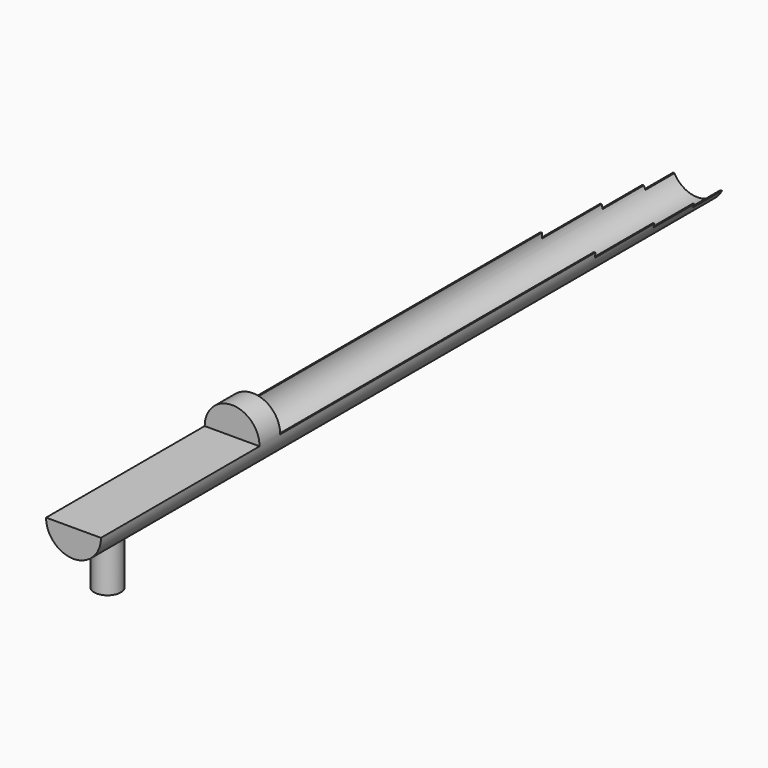
from build123d import *

# Parameters (mm, degrees)
F0_R      = 3.1
F1_DEPTH  = 88.12
F3_DEPTH  = 22.4
F5_DEPTH  = 62.8
F6_R      = 2.95
F7_DEPTH  = 62.8
F9_DEPTH  = 12.5
F10_R     = 1.5
F11_DEPTH = 7.9


with BuildPart() as f1:
    # F0 (on Front) → F1 (new body)
    with BuildSketch(Plane.XZ):
        Circle(F0_R)
    extrude(amount=F1_DEPTH)

    # F2 (on face) → F3 (cut)
    with BuildSketch(Plane.XZ.offset(88.12)):
        with BuildLine():
            ThreePointArc((3.1, 0), (0, 3.1), (-3.1, 0))
            Line((-3.1, 0), (3.1, 0))
        make_face()
    extrude(amount=-F3_DEPTH, mode=Mode.SUBTRACT)

    # F4 (on face) → F5 (cut)
    with BuildSketch(Plane(origin=(0, 0, 0), x_dir=(-1, 0, 0), z_dir=(0, 1, 0))):
        with BuildLine():
            ThreePointArc((3.1, 0), (0, 3.1), (-3.1, 0))
            Line((-3.1, 0), (3.1, 0))
        make_face()
    extrude(amount=-F5_DEPTH, mode=Mode.SUBTRACT)

    # F6 (on face) → F7 (cut)
    with BuildSketch(Plane(origin=(0, 0, 0), x_dir=(-1, 0, 0), z_dir=(0, 1, 0))):
        Circle(F6_R)
    extrude(amount=-F7_DEPTH, mode=Mode.SUBTRACT)

    # F8 (on Right) → F9 (cut, symmetric)
    with BuildSketch(Plane.YZ):
        Polygon((0, 0), (-18.3, 0), (-18.3, -0.55), (-9.9, -0.55), (-9.9, -1), (-4.1, -1), (-4.1, -1.4), (0, -1.4), align=None)
    extrude(amount=F9_DEPTH, both=True, mode=Mode.SUBTRACT)

    # F10 (on face) → F11 (join)
    with BuildSketch(Plane.XY):
        with Locations((0, -83.32)):
            Circle(F10_R)
    extrude(amount=-F11_DEPTH)


solid = f1.part
